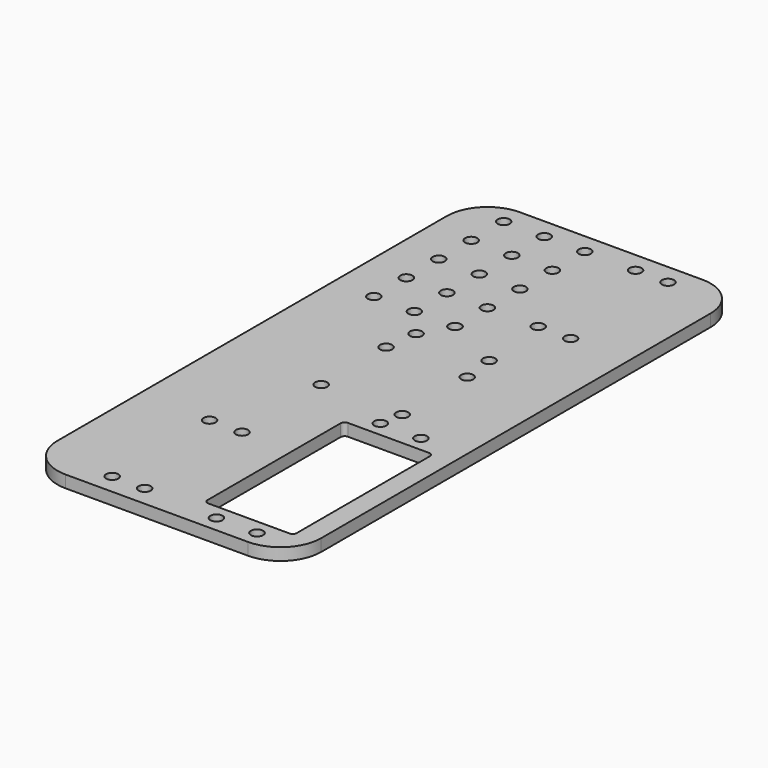
from build123d import *

# Parameters (mm, degrees)
PAD096_DEPTH                       = 3
SKETCH195_R                        = 1.5
POCKET075_DEPTH                    = 5
POLARPATTERN011_COUNT              = 4
SKETCH196_R                        = 1.5
POCKET076_DEPTH                    = 5
SKETCH196_LINEARPATTERN003_2_R     = 1.5
POCKET076_LINEARPATTERN003_2_DEPTH = 5
SKETCH196_LINEARPATTERN003_3_R     = 1.5
POCKET076_LINEARPATTERN003_3_DEPTH = 5
SKETCH196_LINEARPATTERN003_4_R     = 1.5
POCKET076_LINEARPATTERN003_4_DEPTH = 5
SKETCH196_LINEARPATTERN003_5_R     = 1.5
POCKET076_LINEARPATTERN003_5_DEPTH = 5
LINEARPATTERN004_COUNT             = 3
LINEARPATTERN004_PITCH             = 10
SKETCH197_R                        = 1.5
POCKET077_DEPTH                    = 5
SKETCH206_R                        = 1.5
POCKET081_DEPTH                    = 311.766283
SKETCH206_MIRRORED001_2_R          = 1.5
POCKET081_MIRRORED001_2_DEPTH      = 311.766283
SKETCH207_R                        = 1.5
POCKET082_DEPTH                    = 5
SKETCH207_MIRRORED003_2_R          = 1.5
POCKET082_MIRRORED003_2_DEPTH      = 5
SKETCH220_R                        = 1.5
POCKET089_DEPTH                    = 5
BODY074_ROLL_ANGLE                 = 90
BODY074_PLACEMENT_ANGLE            = 90


with BuildPart() as part:
    # Sketch194 → Pad096 (new body)
    with BuildSketch(Plane(origin=(0, 0, 0), x_dir=(-1, 0, 0), z_dir=(0, 1, 0))):
        with BuildLine():
            Line((-60, 30), (60, 30))
            ThreePointArc((70, 20), (67.071068, 27.071068), (60, 30))
            Line((70, 20), (70, -25))
            ThreePointArc((60, -35), (67.071068, -32.071068), (70, -25))
            Line((60, -35), (-60, -35))
            ThreePointArc((-70, -25), (-67.071068, -32.071068), (-60, -35))
            Line((-70, 20), (-70, -25))
            ThreePointArc((-60, 30), (-67.071068, 27.071068), (-70, 20))
        make_face()
    extrude(amount=PAD096_DEPTH)

    # Sketch195 (on Face10 of Pad096) → Pocket075 (cut)
    with BuildSketch(Plane(origin=(0, 3, 0), x_dir=(1, 0, 0), z_dir=(0, 1, 0))):
        with Locations((10, -10)):
            Circle(SKETCH195_R)
    pocket075 = extrude(amount=-POCKET075_DEPTH, mode=Mode.SUBTRACT)

    # PolarPattern011: Pocket075 ×4 about axis
    polarpattern011_axis = Axis((0, 3, 0), (0, 1, 0))
    for i in range(1, POLARPATTERN011_COUNT):
        add(pocket075.rotate(polarpattern011_axis, i * 360 / POLARPATTERN011_COUNT), mode=Mode.SUBTRACT)

    # Sketch196 (on Face5 of PolarPattern011) → Pocket076 (cut)
    with BuildSketch(Plane(origin=(65, 3, -5), x_dir=(1, 0, 0), z_dir=(0, 1, 0))):
        Circle(SKETCH196_R)
    pocket076 = extrude(amount=-POCKET076_DEPTH, mode=Mode.SUBTRACT)

    # Sketch196 LinearPattern003 2 → Pocket076 LinearPattern003 2 (cut)
    with BuildSketch(Plane(origin=(55, 3, -5), x_dir=(1, 0, 0), z_dir=(0, 1, 0))):
        Circle(SKETCH196_LINEARPATTERN003_2_R)
    pocket076_linearpattern003_2 = extrude(amount=-POCKET076_LINEARPATTERN003_2_DEPTH, mode=Mode.SUBTRACT)

    # Sketch196 LinearPattern003 3 → Pocket076 LinearPattern003 3 (cut)
    with BuildSketch(Plane(origin=(45, 3, -5), x_dir=(1, 0, 0), z_dir=(0, 1, 0))):
        Circle(SKETCH196_LINEARPATTERN003_3_R)
    pocket076_linearpattern003_3 = extrude(amount=-POCKET076_LINEARPATTERN003_3_DEPTH, mode=Mode.SUBTRACT)

    # Sketch196 LinearPattern003 4 → Pocket076 LinearPattern003 4 (cut)
    with BuildSketch(Plane(origin=(35, 3, -5), x_dir=(1, 0, 0), z_dir=(0, 1, 0))):
        Circle(SKETCH196_LINEARPATTERN003_4_R)
    pocket076_linearpattern003_4 = extrude(amount=-POCKET076_LINEARPATTERN003_4_DEPTH, mode=Mode.SUBTRACT)

    # Sketch196 LinearPattern003 5 → Pocket076 LinearPattern003 5 (cut)
    with BuildSketch(Plane(origin=(25, 3, -5), x_dir=(1, 0, 0), z_dir=(0, 1, 0))):
        Circle(SKETCH196_LINEARPATTERN003_5_R)
    pocket076_linearpattern003_5 = extrude(amount=-POCKET076_LINEARPATTERN003_5_DEPTH, mode=Mode.SUBTRACT)

    # LinearPattern004: Pocket076, Pocket076 LinearPattern003 2, Pocket076 LinearPattern003 3, Pocket076 LinearPattern003 4, Pocket076 LinearPattern003 5 ×3
    with Locations(*[(0, 0, -i * LINEARPATTERN004_PITCH) for i in range(1, LINEARPATTERN004_COUNT)]):
        add(pocket076, mode=Mode.SUBTRACT)
        add(pocket076_linearpattern003_2, mode=Mode.SUBTRACT)
        add(pocket076_linearpattern003_3, mode=Mode.SUBTRACT)
        add(pocket076_linearpattern003_4, mode=Mode.SUBTRACT)
        add(pocket076_linearpattern003_5, mode=Mode.SUBTRACT)

    # Sketch197 (on Face5 of MultiTransform) → Pocket077 (cut)
    with BuildSketch(Plane(origin=(0, 3, 0), x_dir=(1, 0, 0), z_dir=(0, 1, 0))):
        with Locations((-66, -9)):
            Circle(SKETCH197_R)
        with Locations((-66, -19)):
            Circle(SKETCH197_R)
        with Locations((-15.5, -9)):
            Circle(SKETCH197_R)
        with Locations((-15.5, -19)):
            Circle(SKETCH197_R)
        with BuildLine():
            Line((-19.25, -24), (-19.25, -4))
            ThreePointArc((-20.25, -3), (-19.542893, -3.292893), (-19.25, -4))
            Line((-20.25, -3), (-61.25, -3))
            ThreePointArc((-62.25, -4), (-61.957107, -3.292893), (-61.25, -3))
            Line((-62.25, -4), (-62.25, -24))
            ThreePointArc((-61.25, -25), (-61.957107, -24.707107), (-62.25, -24))
            Line((-61.25, -25), (-20.25, -25))
            ThreePointArc((-19.25, -24), (-19.542893, -24.707107), (-20.25, -25))
        make_face()
    extrude(amount=-POCKET077_DEPTH, mode=Mode.SUBTRACT)

    # Sketch206 → Pocket081 (cut, through all)
    with BuildSketch(Plane(origin=(50, 0, 11.5), x_dir=(1, 0, 0), z_dir=(0, -1, 0))):
        with Locations((15, 4)):
            Circle(SKETCH206_R)
    pocket081 = extrude(amount=-POCKET081_DEPTH, mode=Mode.SUBTRACT)

    # Sketch206 Mirrored001 2 → Pocket081 Mirrored001 2 (cut, through all)
    with BuildSketch(Plane(origin=(50, 0, 11.5), x_dir=(-1, 0, 0), z_dir=(0, 1, 0))):
        with Locations((15, 4)):
            Circle(SKETCH206_MIRRORED001_2_R)
    pocket081_mirrored001_2 = extrude(amount=POCKET081_MIRRORED001_2_DEPTH, mode=Mode.SUBTRACT)

    # Mirrored002: Pocket081, Pocket081 Mirrored001 2 across Sketch206 H_Axis
    add(pocket081.mirror(Plane(origin=(50, 0, 11.5), x_dir=(0, -1, 0), z_dir=(0, 0, 1))), mode=Mode.SUBTRACT)
    add(pocket081_mirrored001_2.mirror(Plane(origin=(50, 0, 11.5), x_dir=(0, -1, 0), z_dir=(0, 0, 1))), mode=Mode.SUBTRACT)

    # Sketch207 → Pocket082 (cut)
    with BuildSketch(Plane(origin=(-50, 0, -13.5), x_dir=(1, 0, 0), z_dir=(0, -1, 0))):
        with Locations((15, 4)):
            Circle(SKETCH207_R)
    pocket082 = extrude(amount=-POCKET082_DEPTH, mode=Mode.SUBTRACT)

    # Sketch207 Mirrored003 2 → Pocket082 Mirrored003 2 (cut)
    with BuildSketch(Plane(origin=(-50, 0, -13.5), x_dir=(-1, 0, 0), z_dir=(0, 1, 0))):
        with Locations((15, 4)):
            Circle(SKETCH207_MIRRORED003_2_R)
    pocket082_mirrored003_2 = extrude(amount=POCKET082_MIRRORED003_2_DEPTH, mode=Mode.SUBTRACT)

    # Mirrored004: Pocket082, Pocket082 Mirrored003 2 across Sketch207 H_Axis
    add(pocket082.mirror(Plane(origin=(-50, 0, -13.5), x_dir=(0, -1, 0), z_dir=(0, 0, 1))), mode=Mode.SUBTRACT)
    add(pocket082_mirrored003_2.mirror(Plane(origin=(-50, 0, -13.5), x_dir=(0, -1, 0), z_dir=(0, 0, 1))), mode=Mode.SUBTRACT)

    # Sketch220 → Pocket089 (cut)
    with BuildSketch(Plane(origin=(18, 0, 0), x_dir=(1, 0, 0), z_dir=(0, -1, 0))):
        with Locations((0, 9)):
            Circle(SKETCH220_R)
        with Locations((0, -9)):
            Circle(SKETCH220_R)
    extrude(amount=-POCKET089_DEPTH, mode=Mode.SUBTRACT)


with BuildPart() as part_1:
    # Body074 roll: moved
    add(part.part.rotate(Axis((0, 0, 0), (1, 0, 0)), BODY074_ROLL_ANGLE))


with BuildPart() as part_2:
    # Body074 placement: moved
    add(part_1.part.moved(Location((25, 0, 13))).rotate(Axis((25, 0, 13), (0, 0, 1)), BODY074_PLACEMENT_ANGLE))


solid = part_2.part
